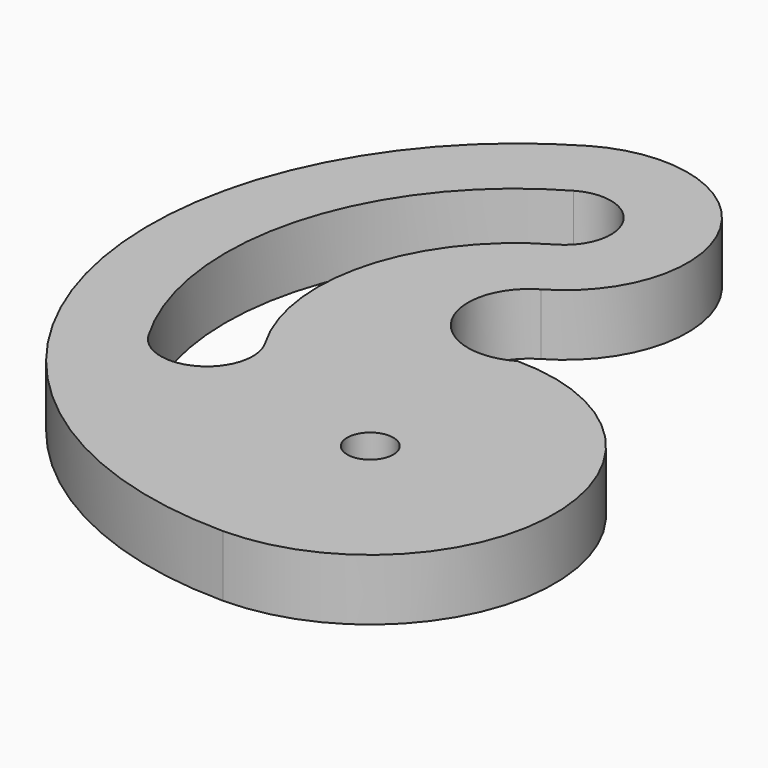
from build123d import *

# Parameters (mm, degrees)
F0_R     = 37.5
F1_DEPTH = 100


with BuildPart() as f1:
    # F0 (on Top) → F1 (new body)
    with BuildSketch(Plane.XY):
        with BuildLine():
            ThreePointArc((-300, 519.615242), (-579.555496, -155.291427), (0, -600))
            ThreePointArc((0, -600), (300, -300), (0, 0))
            ThreePointArc((0, 0), (-136.60254, 36.60254), (-100, 173.205081))
            ThreePointArc((-100, 173.205081), (-26.794919, 446.410162), (-300, 519.615242))
        make_face()
        with Locations((0, -300)):
            Circle(F0_R, mode=Mode.SUBTRACT)
        with BuildLine():
            ThreePointArc((-411.362067, -237.5), (-460.342639, 123.348438), (-237.5, 411.362067))
            ThreePointArc((-237.5, 411.362067), (-135.048095, 383.910162), (-162.5, 281.458256))
            ThreePointArc((-162.5, 281.458256), (-315.129652, 84.438736), (-281.458256, -162.5))
            ThreePointArc((-281.458256, -162.5), (-308.910162, -264.951905), (-411.362067, -237.5))
        make_face(mode=Mode.SUBTRACT)
    extrude(amount=F1_DEPTH)


solid = f1.part
